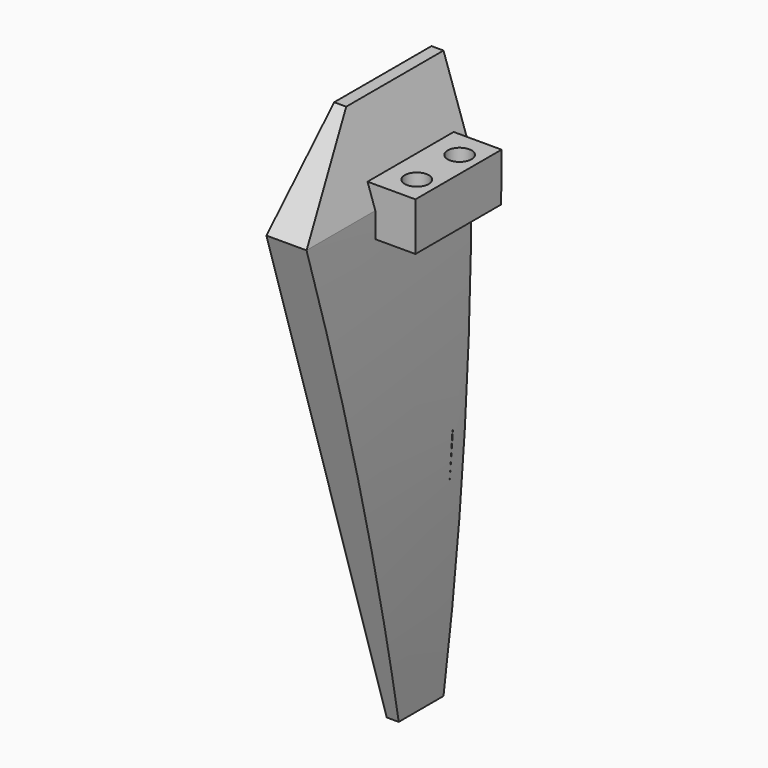
from build123d import *

# Parameters (mm, degrees)
F1_DEPTH   = 25.4
F3_DEPTH   = 25.4
F1_FACE1_W = 25.4
F1_FACE1_H = 38.1020354138
F4_DEPTH   = 76.2
F5_DEPTH   = 25.4
F6_R       = 3.81
F7_DEPTH   = 25.4


with BuildPart() as f1:
    # F0 (on Right) → F1 (new body)
    with BuildSketch(Plane.YZ):
        Polygon((-3.7335716031, 66.174152714), (-38.0235716031, 66.5286004045), (-65.2428203725, 39.8663124475), (-17.6430062947, -113.8280024187), (-4.9430062947, -113.8280024187), (-4.9430062947, -50.8290516523), (-4.9430062947, -35.4195966316), (-4.783722371, -35.4195966316), (-4.0876944394, 31.9155797899), (-38.02458931, 31.9155797899), (-38.02458931, 47.1555797899), (-3.9301621325, 47.1555797899), align=None)
        Polygon((0.0764283969, 31.9155797899), (-4.0876944394, 31.9155797899), (-4.783722371, -35.4195966316), (0.0764283969, -35.4195966316), align=None)
        Polygon((-4.9430062947, -50.8290516523), (-4.9430062947, -113.8280024187), (0.0764283969, -113.8280024187), (0.0764283969, -35.4195966316), (-4.783722371, -35.4195966316), align=None)
        Polygon((0.0764283969, 66.1347696372), (-3.7335716031, 66.174152714), (-3.9301621325, 47.1555797899), (0.0764283969, 47.1555797899), align=None)
        Polygon((0.0764283969, 47.1555797899), (-3.9301621325, 47.1555797899), (-4.0876944394, 31.9155797899), (0.0764283969, 31.9155797899), align=None)
    extrude(amount=F1_DEPTH)

    # F0 (on Right) → F3 (join)
    with BuildSketch(Plane.YZ):
        Polygon((-4.0876944394, 31.9155797899), (-3.9301621325, 47.1555797899), (-38.02458931, 47.1555797899), (-38.02458931, 31.9155797899), align=None)
    extrude(amount=F3_DEPTH)

    # F2 (on face) + F1_face1 (on face) → F4 (cut)
    with BuildSketch(Plane(origin=(0, 0.0764283969, 0), x_dir=(-1, 0, 0), z_dir=(0, 1, 0))):
        Polygon((-12.7, 55.3310290966), (-3.81, 66.1347696372), (-12.7, 66.1347696372), align=None)
        with BuildLine():
            ThreePointArc((-12.7, -113.8280024187), (-22.1716577551, -37.2233399355), (-25.4, 39.8971140385))
            Line((-25.4, 39.8971140385), (-25.4, -113.8280024187))
            Line((-25.4, -113.8280024187), (-12.7, -113.8280024187))
        make_face()
        Polygon((-12.7, 55.3310290966), (-12.7, 66.1347696372), (-25.4, 66.1347696372), (-25.4, 39.8971140385), align=None)
        Polygon((-12.7, 39.8971140385), (-3.81, 66.1347696372), (-12.7, 55.3310290966), align=None)
        Polygon((-25.4, 39.8971140385), (-12.7, 39.8971140385), (-12.7, 55.3310290966), align=None)
        with BuildLine():
            ThreePointArc((-3.81, -113.8280024187), (-10.5684247316, -37.0992306938), (-12.7, 39.8971140385))
            Line((-12.7, 39.8971140385), (-25.4, 39.8971140385))
            ThreePointArc((-25.4, 39.8971140385), (-22.1716577551, -37.2233399355), (-12.7, -113.8280024187))
            Line((-12.7, -113.8280024187), (-3.81, -113.8280024187))
        make_face()
    with BuildSketch(Plane(origin=(12.7, -18.9735716031, 66.3316850209), x_dir=(1, 0, 0), z_dir=(0, 0.0103362134, 0.9999465799))):
        Rectangle(F1_FACE1_W, F1_FACE1_H)
    extrude(amount=-F4_DEPTH, dir=(0, 1, 0), mode=Mode.SUBTRACT)

    # F0 (on Right) → F5 (join)
    with BuildSketch(Plane.YZ):
        Polygon((-4.0876944394, 31.9155797899), (-3.9301621325, 47.1555797899), (-38.02458931, 47.1555797899), (-38.02458931, 31.9155797899), align=None)
    extrude(amount=F5_DEPTH)

    # F6 (on face) → F7 (cut)
    with BuildSketch(Plane(origin=(0, 0, 31.9155797899), x_dir=(1, 0, 0), z_dir=(0, 0, -1))):
        with Locations((19.0471851579, 12.5712944394)):
            Circle(F6_R)
        with Locations((19.0471851579, 29.54098931)):
            Circle(F6_R)
    extrude(amount=-F7_DEPTH, mode=Mode.SUBTRACT)


solid = f1.part
